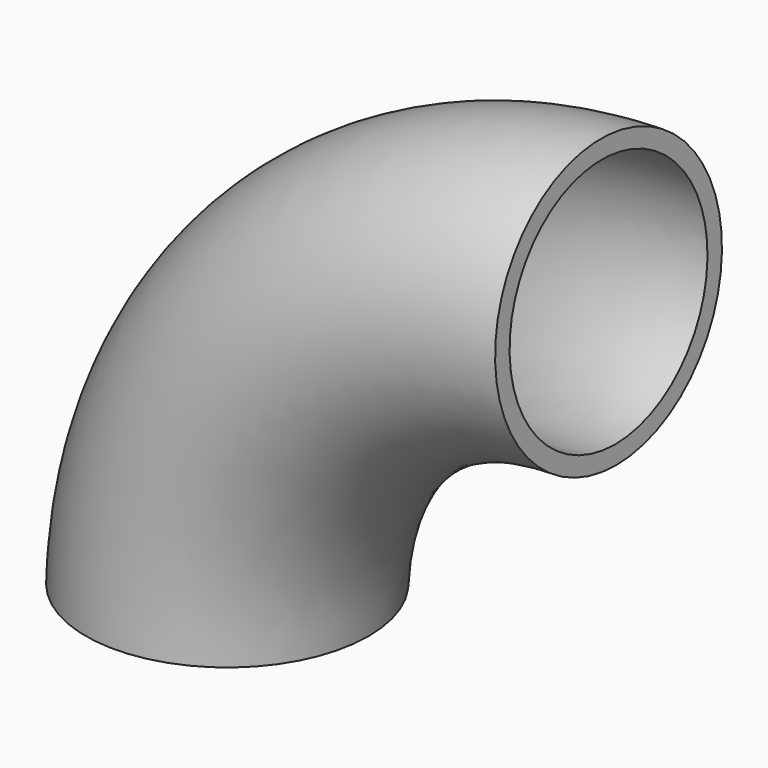
from build123d import *

# Parameters (mm, degrees)
F0_R   = 27.638177
F0_R_2 = 24.112676


with BuildPart() as f2:
    # F2: sweep along a path in F1
    with BuildLine(Plane.XZ) as f2_path:
        ThreePointArc((74.492067, 72.718449), (22.757339, 51.201302), (0, 0))
    # F0 (on Top) → F2 (sweep)
    with BuildSketch(Plane.XY):
        Circle(F0_R)
        Circle(F0_R_2, mode=Mode.SUBTRACT)
    sweep(path=f2_path.line)


solid = f2.part
